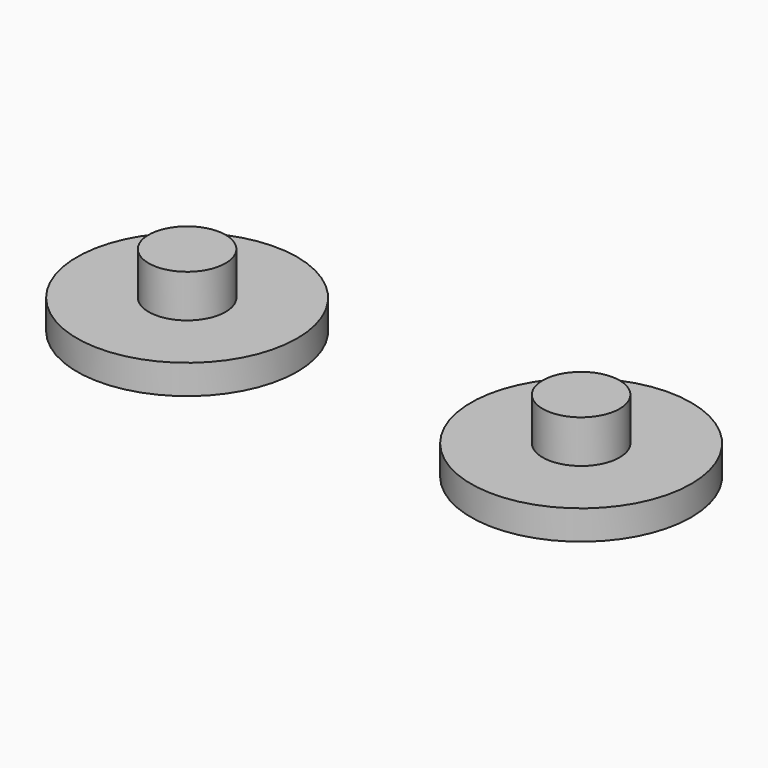
from build123d import *

# Parameters (mm, degrees)
F0_R     = 11.43
F1_DEPTH = 3.048
F2_R     = 3.99415
F3_DEPTH = 4.445


with BuildPart() as f1:
    # F0 (on Top) → F1 (new body)
    with BuildSketch(Plane.XY):
        with Locations((13.193139, 16.314097)):
            Circle(F0_R)
    extrude(amount=F1_DEPTH)

    # F2 (on face) → F3 (join)
    with BuildSketch(Plane.XY.offset(3.048)):
        with Locations((13.193139, 16.314097)):
            Circle(F2_R)
    extrude(amount=F3_DEPTH)


with BuildPart() as f4_1:
    # F4: copy of F1
    add(f1.part.moved(Location((-40.894, 0, 0))))


solid = Compound([f1.part, f4_1.part])
